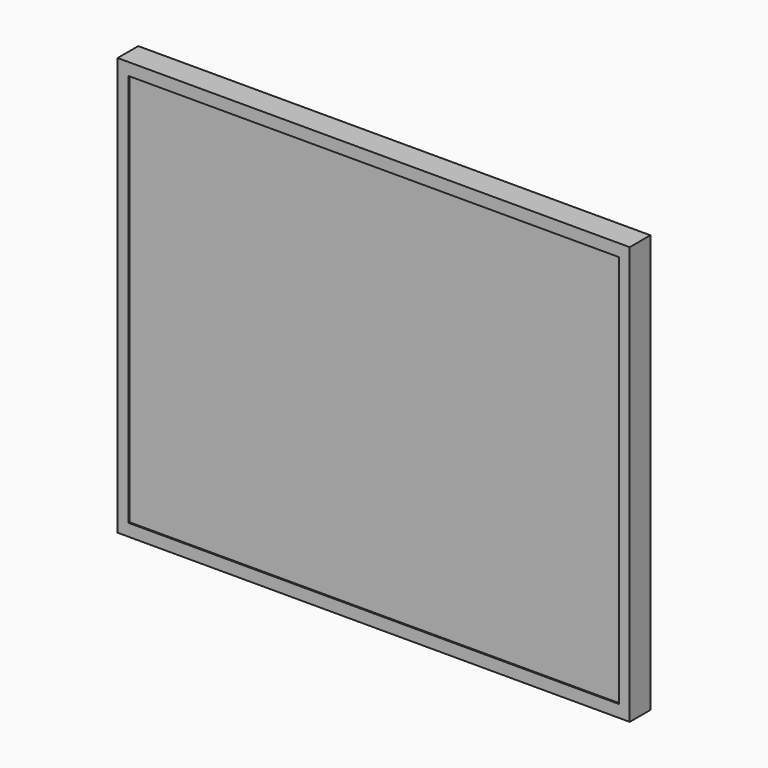
from build123d import *

# Parameters (mm, degrees)
F0_W     = 397
F0_H     = 324
F1_DEPTH = 20
F2_W     = 380
F2_H     = 305
F3_DEPTH = 1
F4_W     = 235
F4_H     = 145
F5_DEPTH = 25


with BuildPart() as f1:
    # F0 (on Front) → F1 (new body)
    with BuildSketch(Plane.XZ):
        Rectangle(F0_W, F0_H)
    extrude(amount=F1_DEPTH)

    # F2 (on face) → F3 (cut)
    with BuildSketch(Plane.XZ.offset(20)):
        Rectangle(F2_W, F2_H)
    extrude(amount=-F3_DEPTH, mode=Mode.SUBTRACT)

    # F4 (on face) → F5 (join)
    with BuildSketch(Plane.XZ):
        with Locations((30, 4.5)):
            Rectangle(F4_W, F4_H)
    extrude(amount=-F5_DEPTH)


solid = f1.part
